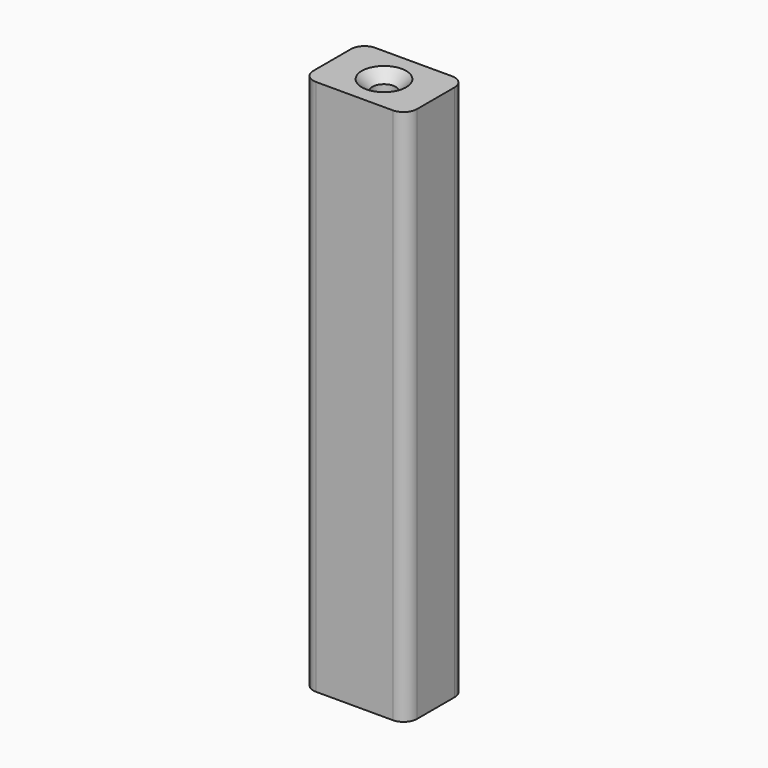
from build123d import *

# Parameters (mm, degrees)
F0_W           = 98.0767756701
F0_H           = 69.9729025364
F1_DEPTH       = 508
F2_R           = 12.7
F4_D           = 22
F4_DEPTH       = 50.8
F4_CSINK_D     = 42
F4_CSINK_ANGLE = 90
F4_TIP         = 6.6094668093


with BuildPart() as f1:
    # F0 (on Top) → F1 (new body)
    with BuildSketch(Plane.XY):
        Rectangle(F0_W, F0_H)
    extrude(amount=F1_DEPTH)

    # F2
    f2_edges = [f1.edges().sort_by_distance(p)[0] for p in [
        (49.038388, 34.986451, 254),
        (-49.038388, 34.986451, 254),
        (-49.038388, -34.986451, 254),
        (49.038388, -34.986451, 254),
    ]]
    fillet(f2_edges, radius=F2_R)

    # F4
    with Locations(Plane.XY.offset(508)):
        with Locations((0, 0)):
            CounterSinkHole(F4_D / 2, F4_CSINK_D / 2, depth=F4_DEPTH, counter_sink_angle=F4_CSINK_ANGLE)
            with Locations((0, 0, -(F4_DEPTH + F4_TIP / 2))):  # 118° drill point
                Cone(0, F4_D / 2, F4_TIP, mode=Mode.SUBTRACT)


solid = f1.part
